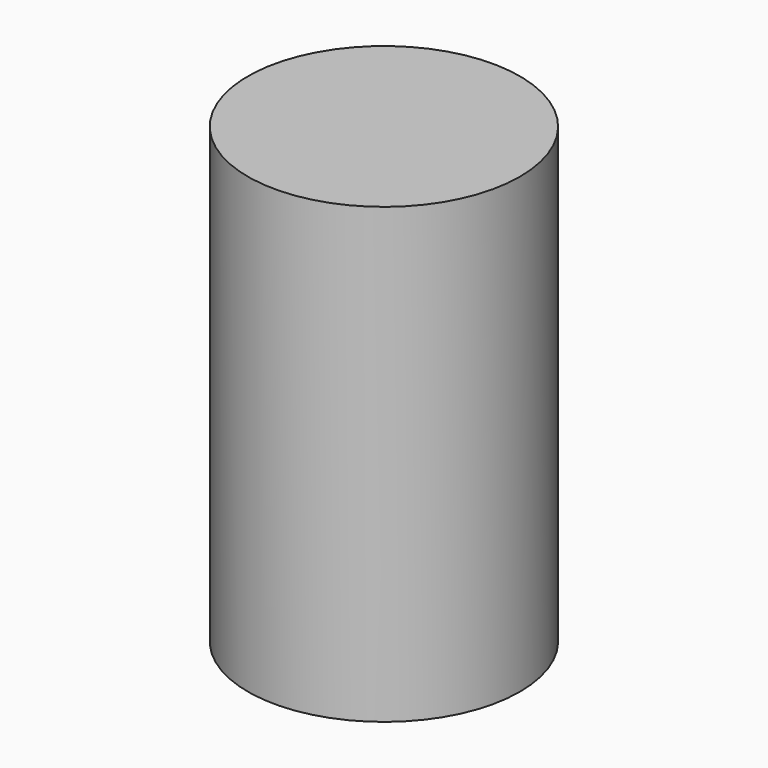
from build123d import *

# Parameters (mm, degrees)
F1_R     = 7.62
F2_DEPTH = 25.4
F3_DEPTH = 10


with BuildPart() as f2:
    # F1 (on Top) → F2 (new body)
    with BuildSketch(Plane.XY):
        Circle(F1_R)
    extrude(amount=F2_DEPTH)

    # F0 (on Top) → F3 (cut)
    with BuildSketch(Plane.XY):
        with BuildLine():
            Line((-2.45, 1.81659), (-2.45, -1.81659))
            ThreePointArc((-2.45, -1.81659), (3.05, 0), (-2.45, 1.81659))
        make_face()
    extrude(amount=F3_DEPTH, mode=Mode.SUBTRACT)


solid = f2.part
